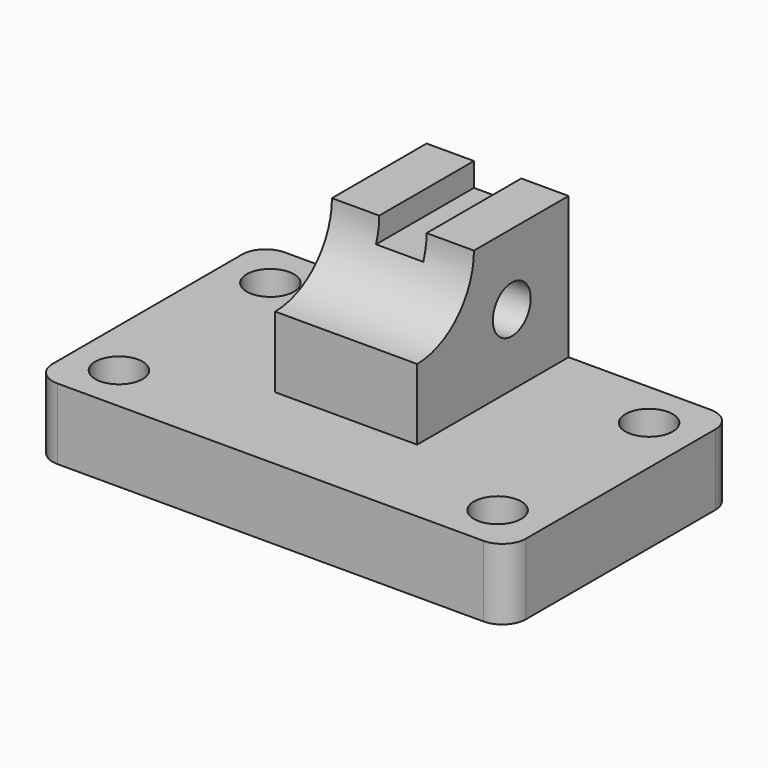
from build123d import *

# Parameters (mm, degrees)
F0_W     = 127
F0_H     = 76.2
F0_R     = 6.35
F1_DEPTH = 19.05
F2_W     = 38.1
F2_H     = 50.8
F3_DEPTH = 38.1
F4_R     = 19.05
F5_DEPTH = 82.551
F6_W     = 12.7
F6_H     = 38.2500794058
F7_DEPTH = 6.35
F8_R     = 6.35
F9_DEPTH = 82.551
F10_R    = 6.35


with BuildPart() as f1:
    # F0 (on Top) → F1 (new body)
    with BuildSketch(Plane.XY):
        with Locations((21.6519124806, 0.1500794058)):
            Rectangle(F0_W, F0_H)
        with Locations((-29.1480875194, -25.2499205942)):
            Circle(F0_R, mode=Mode.SUBTRACT)
        with Locations((72.4519124806, -25.2499205942)):
            Circle(F0_R, mode=Mode.SUBTRACT)
        with Locations((-29.1480875194, 25.5500794058)):
            Circle(F0_R, mode=Mode.SUBTRACT)
        with Locations((72.4519124806, 25.5500794058)):
            Circle(F0_R, mode=Mode.SUBTRACT)
    extrude(amount=-F1_DEPTH)

    # F2 (on face) → F3 (join)
    with BuildSketch(Plane.XY):
        with Locations((21.6519124806, 12.8500794058)):
            Rectangle(F2_W, F2_H)
    extrude(amount=F3_DEPTH)

    # F4 (on face) → F5 (cut, through all)
    with BuildSketch(Plane.YZ.offset(40.7019124806)):
        with Locations((-12.5499205942, 38.1)):
            Circle(F4_R)
    extrude(amount=-F5_DEPTH, mode=Mode.SUBTRACT)

    # F6 (on face) → F7 (cut)
    with BuildSketch(Plane.XY.offset(38.1)):
        with Locations((21.6519124806, 19.1250397029)):
            Rectangle(F6_W, F6_H)
    extrude(amount=-F7_DEPTH, mode=Mode.SUBTRACT)

    # F8 (on face) → F9 (cut, through all)
    with BuildSketch(Plane.YZ.offset(40.7019124806)):
        with Locations((19.2000794058, 19.05)):
            Circle(F8_R)
    extrude(amount=-F9_DEPTH, mode=Mode.SUBTRACT)

    # F10
    f10_edges = [f1.edges().sort_by_distance(p)[0] for p in [
        (-41.848088, -37.949921, -9.525),
        (-41.848088, 38.250079, -9.525),
        (85.151912, -37.949921, -9.525),
        (85.151912, 38.250079, -9.525),
    ]]
    fillet(f10_edges, radius=F10_R)


solid = f1.part
